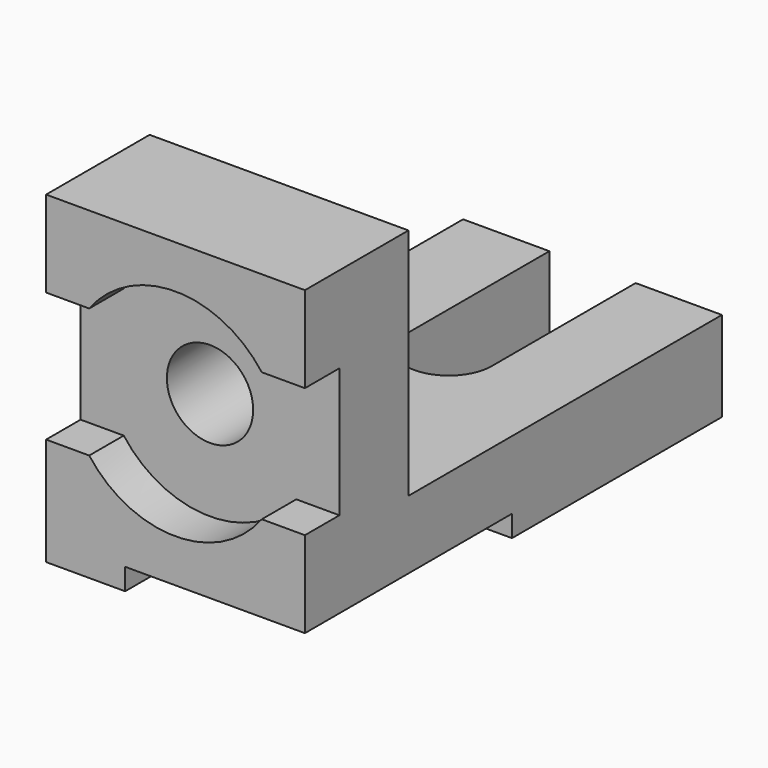
from build123d import *

# Parameters (mm, degrees)
F0_W      = 72
F0_H      = 145
F1_DEPTH  = 90
F2_W      = 109
F2_H      = 65
F3_DEPTH  = 72
F4_W      = 50
F4_H      = 72
F5_DEPTH  = 6
F7_DEPTH  = 25
F8_R      = 12
F9_DEPTH  = 12
F10_DEPTH = 36


with BuildPart() as f1:
    # F0 (on Top) → F1 (new body)
    with BuildSketch(Plane.XY):
        with Locations((4.297932, 22.416884)):
            Rectangle(F0_W, F0_H)
    extrude(amount=F1_DEPTH)

    # F2 (on face) → F3 (cut)
    with BuildSketch(Plane.YZ.offset(40.297932)):
        with Locations((40.416884, 57.5)):
            Rectangle(F2_W, F2_H)
    extrude(amount=-F3_DEPTH, mode=Mode.SUBTRACT)

    # F4 (on face) → F5 (cut)
    with BuildSketch(Plane(origin=(0, 0, 0), x_dir=(1, 0, 0), z_dir=(0, 0, -1))):
        with Locations((15.297932, 14.083116)):
            Rectangle(F4_W, F4_H)
    extrude(amount=-F5_DEPTH, mode=Mode.SUBTRACT)

    # F6 (on face) → F7 (cut)
    with BuildSketch(Plane.XY.offset(25)):
        with BuildLine():
            Line((16.297932, 94.916884), (-7.702068, 94.916884))
            Line((-7.702068, 94.916884), (-7.702068, 44.916884))
            ThreePointArc((-7.702068, 44.916884), (4.297932, 32.916884), (16.297932, 44.916884))
            Line((16.297932, 44.916884), (16.297932, 94.916884))
        make_face()
    extrude(amount=-F7_DEPTH, mode=Mode.SUBTRACT)

    # F8 (on face) → F9 (cut)
    with BuildSketch(Plane.XZ.offset(50.083116)):
        with BuildLine():
            Line((-19.702068, 66), (-31.702068, 66))
            Line((-31.702068, 66), (-31.702068, 30))
            Line((-31.702068, 30), (-19.702068, 30))
            ThreePointArc((-19.702068, 30), (4.297932, 18), (28.297932, 30))
            Line((28.297932, 30), (40.297932, 30))
            Line((40.297932, 30), (40.297932, 66))
            Line((40.297932, 66), (28.297932, 66))
            ThreePointArc((28.297932, 66), (4.297932, 78), (-19.702068, 66))
        make_face()
        with Locations((4.297932, 48)):
            Circle(F8_R, mode=Mode.SUBTRACT)
    extrude(amount=-F9_DEPTH, mode=Mode.SUBTRACT)

    # F8 (on face) → F10 (cut)
    with BuildSketch(Plane.XZ.offset(50.083116)):
        with Locations((4.297932, 48)):
            Circle(F8_R)
    extrude(amount=-F10_DEPTH, mode=Mode.SUBTRACT)


solid = f1.part
